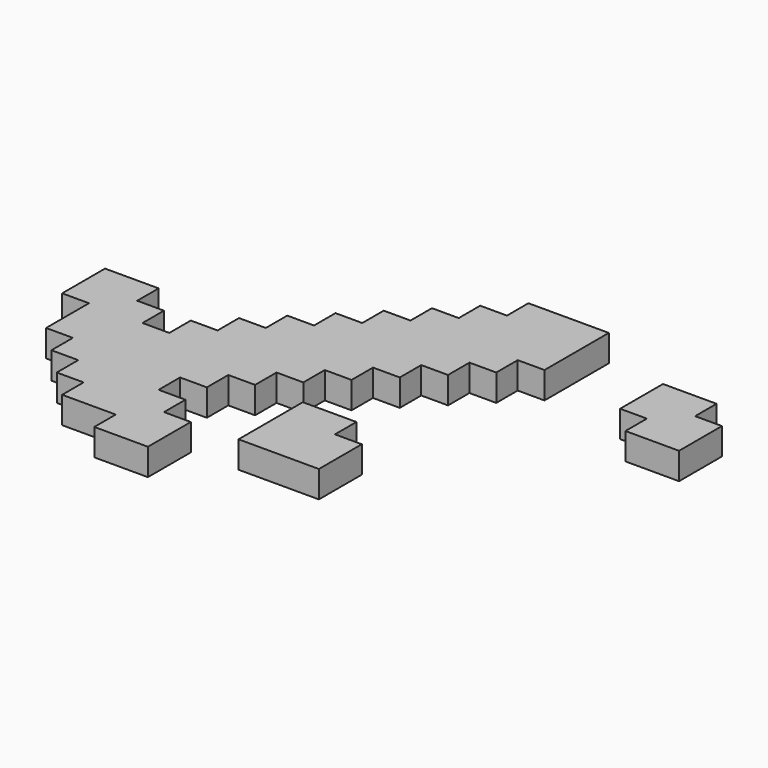
from build123d import *

# Parameters (mm, degrees)
F1_DEPTH = 10


with BuildPart() as f1:
    # F0 (on Top) → F1 (new body)
    with BuildSketch(Plane.XY):
        Polygon((0, -14.691349), (0, 15.308651), (-30, 15.308651), (-30, 5.308651), (-40, 5.308651), (-40, -4.691349), (-50, -4.691349), (-50, -14.691349), (-60, -14.691349), (-60, -24.691349), (-70, -24.691349), (-70, -34.691349), (-80, -34.691349), (-80, -44.691349), (-90, -44.691349), (-90, -54.691349), (-100, -54.691349), (-100, -64.691349), (-110, -64.691349), (-110, -54.691349), (-120, -54.691349), (-120, -44.691349), (-140, -44.691349), (-140, -64.691349), (-130, -64.691349), (-130, -84.691349), (-120, -84.691349), (-120, -94.691349), (-110, -94.691349), (-110, -104.691349), (-100, -104.691349), (-100, -114.691349), (-80, -114.691349), (-80, -124.691349), (-60, -124.691349), (-60, -104.691349), (-70, -104.691349), (-70, -94.691349), (-80, -94.691349), (-80, -84.691349), (-70, -84.691349), (-70, -74.691349), (-60, -74.691349), (-60, -64.691349), (-50, -64.691349), (-50, -54.691349), (-40, -54.691349), (-40, -44.691349), (-30, -44.691349), (-30, -34.691349), (-20, -34.691349), (-20, -24.691349), (-10, -24.691349), (-10, -14.691349), align=None)
        Polygon((-22.316854, -74.532531), (-42.316854, -74.532531), (-42.316854, -104.532531), (-12.316854, -104.532531), (-12.316854, -84.532531), (-22.316854, -84.532531), align=None)
        Polygon((52.460153, 0), (32.460153, 0), (32.460153, -20), (42.460153, -20), (42.460153, -30), (62.460153, -30), (62.460153, -10), (52.460153, -10), align=None)
    extrude(amount=F1_DEPTH)


solid = f1.part
